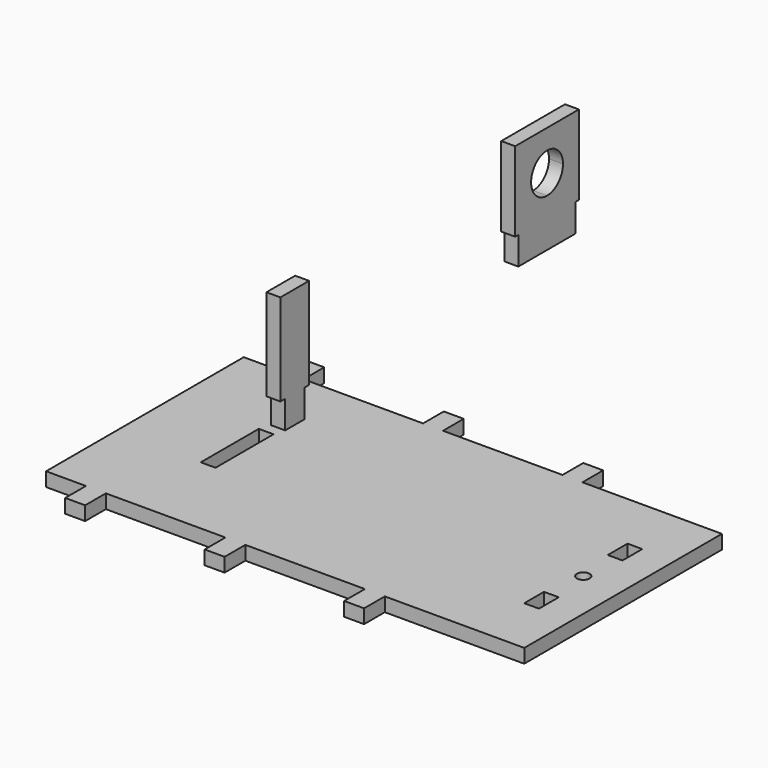
from build123d import *

# Parameters (mm, degrees)
F0_W      = 120
F0_H      = 62
F1_DEPTH  = 3.5
F2_W      = 5
F2_H      = 6.5
F3_DEPTH  = 3.5
F4_R      = 1.6
F5_DEPTH  = 3.501
F7_DEPTH  = 3.501
F9_DEPTH  = 3.5
F11_DEPTH = 3.5


with BuildPart() as f1:
    # F0 (on Top) → F1 (new body)
    with BuildSketch(Plane.XY):
        Rectangle(F0_W, F0_H)
    extrude(amount=F1_DEPTH)

    # F2 (on face) → F3 (join)
    with BuildSketch(Plane.XY.offset(3.5)):
        with Locations((-47.5, 34.25)):
            Rectangle(F2_W, F2_H)
        with Locations((-12.5, 34.25)):
            Rectangle(F2_W, F2_H)
        with Locations((22.5, 34.25)):
            Rectangle(F2_W, F2_H)
        with Locations((-47.5, -34.25)):
            Rectangle(F2_W, F2_H)
        with Locations((-12.5, -34.25)):
            Rectangle(F2_W, F2_H)
        with Locations((22.5, -34.25)):
            Rectangle(F2_W, F2_H)
    extrude(amount=-F3_DEPTH)

    # F4 (on face) → F5 (cut, through all)
    with BuildSketch(Plane.XY.offset(3.5)):
        with Locations((50, 0)):
            Circle(F4_R)
    extrude(amount=-F5_DEPTH, mode=Mode.SUBTRACT)

    # F6 (on face) → F7 (cut, through all)
    with BuildSketch(Plane.XY.offset(3.5)):
        Polygon((-35, -9.1), (-35, 0), (-35, 9.1), (-38.7, 9.1), (-38.7, -9.1), align=None)
        Polygon((48.15, 10), (50, 10), (51.85, 10), (51.85, 16.2), (48.15, 16.2), align=None)
        Polygon((51.85, -10), (50, -10), (48.15, -10), (48.15, -16.2), (51.85, -16.2), align=None)
    extrude(amount=-F7_DEPTH, mode=Mode.SUBTRACT)


with BuildPart() as f9:
    # F8 (on Right) → F9 (new body)
    with BuildSketch(Plane.YZ):
        Polygon((-35.3731953984, 41.9501893669), (-35.3731953984, 34.9501893669), (-29.3731953984, 34.9501893669), (-29.3731953984, 41.9501893669), (-27.8731953984, 41.9501893669), (-27.8731953984, 64.9501893669), (-36.8731953984, 64.9501893669), (-36.8731953984, 41.9501893669), align=None)
    extrude(amount=F9_DEPTH)


with BuildPart() as f11:
    # F10 (on Right) → F11 (new body)
    with BuildSketch(Plane.YZ):
        Polygon((37.7718215659, 48.4099896544), (37.7718215659, 41.4099896544), (46.7718215659, 41.4099896544), (55.7718215659, 41.4099896544), (55.7718215659, 48.4099896544), (56.7718215659, 48.4099896544), (56.7718215659, 68.4099896544), (36.7718215659, 68.4099896544), (36.7718215659, 48.4099896544), align=None)
        with BuildLine():
            ThreePointArc((51.7718215659, 58.4099896544), (50.3073554719, 54.8744557485), (46.7718215659, 53.4099896544))
            ThreePointArc((46.7718215659, 53.4099896544), (43.23628766, 61.9455235603), (51.7718215659, 58.4099896544))
        make_face(mode=Mode.SUBTRACT)
    extrude(amount=F11_DEPTH)


solid = Compound([f1.part, f9.part, f11.part])
